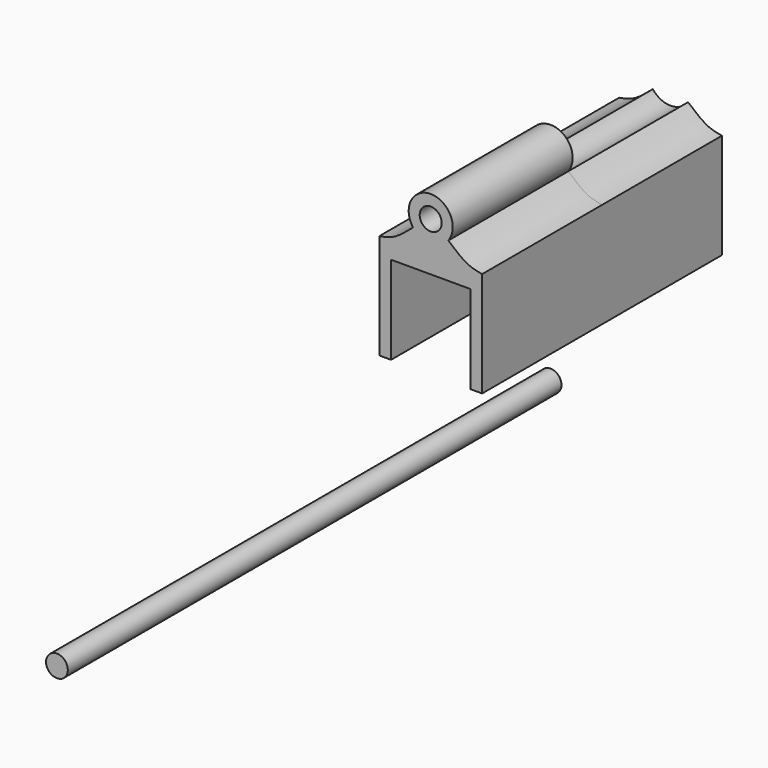
from build123d import *

# Parameters (mm, degrees)
F1_DEPTH = 51
F2_DEPTH = 51
F3_DEPTH = 51
F4_D     = 7.5
F0_R     = 3.7
F5_DEPTH = 210


with BuildPart() as f1:
    # F0 (on Front) → F1 (new body)
    with BuildSketch(Plane.XZ):
        with BuildLine():
            ThreePointArc((5.9987858254, 44.3558645231), (0, 41.3574829677), (-5.9987858254, 44.3558645231))
            add(Edge.make_bspline(
                [(-5.9987858254, 44.3558645231), (-8.174405062, 42.4618731386), (-12.1198014992, 39.0278600841), (-15.8422500893, 38.3441035757), (-17.5, 38.0384236262)],
                knots=[0, 0, 0, 0, 0.5545546229, 1, 1, 1, 1], degree=3))
            Line((-17.5, 38.0384236262), (-17.5, 2.2723694175))
            Line((-17.5, 2.2723694175), (-13.5, 2.2723694175))
            Line((-13.5, 2.2723694175), (-13.5, 32.2723694175))
            Line((-13.5, 32.2723694175), (13.5, 32.2723694175))
            Line((13.5, 32.2723694175), (13.5, 2.2723694175))
            Line((13.5, 2.2723694175), (17.5, 2.2723694175))
            Line((17.5, 2.2723694175), (17.5, 38.0384236262))
            add(Edge.make_bspline(
                [(5.9987858254, 44.3558645231), (8.174405062, 42.4618731386), (12.1198014992, 39.0278600841), (15.8422500893, 38.3441035757), (17.5, 38.0384236262)],
                knots=[0, 0, 0, 0, 0.5545546229, 1, 1, 1, 1], degree=3))
        make_face()
        with BuildLine():
            ThreePointArc((5.9987858254, 44.3558645231), (7.1148047651, 46.4848150275), (7.5, 48.8574829677))
            ThreePointArc((7.5, 48.8574829677), (-2.3726679402, 55.9722877328), (-5.9987858254, 44.3558645231))
            ThreePointArc((-5.9987858254, 44.3558645231), (0, 41.3574829677), (5.9987858254, 44.3558645231))
        make_face()
    extrude(amount=F1_DEPTH)

    # F0 (on Front) → F2 (join)
    with BuildSketch(Plane.XZ):
        with BuildLine():
            ThreePointArc((5.9987858254, 44.3558645231), (0, 41.3574829677), (-5.9987858254, 44.3558645231))
            add(Edge.make_bspline(
                [(-5.9987858254, 44.3558645231), (-8.174405062, 42.4618731386), (-12.1198014992, 39.0278600841), (-15.8422500893, 38.3441035757), (-17.5, 38.0384236262)],
                knots=[0, 0, 0, 0, 0.5545546229, 1, 1, 1, 1], degree=3))
            Line((-17.5, 38.0384236262), (-17.5, 2.2723694175))
            Line((-17.5, 2.2723694175), (-13.5, 2.2723694175))
            Line((-13.5, 2.2723694175), (-13.5, 32.2723694175))
            Line((-13.5, 32.2723694175), (13.5, 32.2723694175))
            Line((13.5, 32.2723694175), (13.5, 2.2723694175))
            Line((13.5, 2.2723694175), (17.5, 2.2723694175))
            Line((17.5, 2.2723694175), (17.5, 38.0384236262))
            add(Edge.make_bspline(
                [(5.9987858254, 44.3558645231), (8.174405062, 42.4618731386), (12.1198014992, 39.0278600841), (15.8422500893, 38.3441035757), (17.5, 38.0384236262)],
                knots=[0, 0, 0, 0, 0.5545546229, 1, 1, 1, 1], degree=3))
        make_face()
    extrude(amount=F2_DEPTH)

    # F0 (on Front) → F3 (join)
    with BuildSketch(Plane.XZ):
        with BuildLine():
            ThreePointArc((5.9987858254, 44.3558645231), (0, 41.3574829677), (-5.9987858254, 44.3558645231))
            add(Edge.make_bspline(
                [(-5.9987858254, 44.3558645231), (-8.174405062, 42.4618731386), (-12.1198014992, 39.0278600841), (-15.8422500893, 38.3441035757), (-17.5, 38.0384236262)],
                knots=[0, 0, 0, 0, 0.5545546229, 1, 1, 1, 1], degree=3))
            Line((-17.5, 38.0384236262), (-17.5, 2.2723694175))
            Line((-17.5, 2.2723694175), (-13.5, 2.2723694175))
            Line((-13.5, 2.2723694175), (-13.5, 32.2723694175))
            Line((-13.5, 32.2723694175), (13.5, 32.2723694175))
            Line((13.5, 32.2723694175), (13.5, 2.2723694175))
            Line((13.5, 2.2723694175), (17.5, 2.2723694175))
            Line((17.5, 2.2723694175), (17.5, 38.0384236262))
            add(Edge.make_bspline(
                [(5.9987858254, 44.3558645231), (8.174405062, 42.4618731386), (12.1198014992, 39.0278600841), (15.8422500893, 38.3441035757), (17.5, 38.0384236262)],
                knots=[0, 0, 0, 0, 0.5545546229, 1, 1, 1, 1], degree=3))
        make_face()
    extrude(amount=-F3_DEPTH)

    # F4 (through all)
    with Locations(Plane(origin=(0, 0, 0), x_dir=(1, 0, 0), z_dir=(0, 1, 0))):
        with Locations((0, -48.8574829677)):
            Hole(F4_D / 2)


with BuildPart() as f5:
    # F0 (on Front) → F5 (new body)
    with BuildSketch(Plane.XZ):
        with Locations((0, -20.4001702368)):
            Circle(F0_R)
    extrude(amount=F5_DEPTH)


solid = Compound([f1.part, f5.part])
